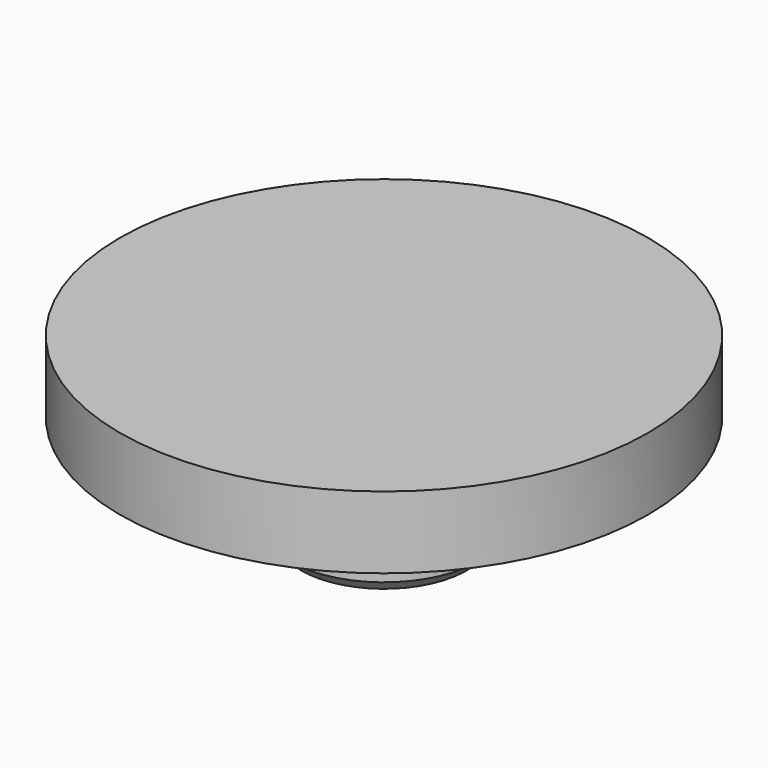
from build123d import *

# Parameters (mm, degrees)
F2_SIZE = 0.5


with BuildPart() as f1:
    # F0 (on Front) → F1 (revolve)
    with BuildSketch(Plane.XZ):
        Polygon((0, 0), (0, 7.5), (-11, 7.5), (-11, 4.5), (-6.783784, 4.5), (-6.783784, 3.5), (-3.95, 3.5), (-3.95, 0), align=None)
    revolve(axis=Axis((0, 0, 3.75), (0, 0, 1)))

    # F2
    f2_edges = [f1.edges().sort_by_distance(p)[0] for p in [
        (3.95, 0, 0),
    ]]
    chamfer(f2_edges, length=F2_SIZE)


solid = f1.part
